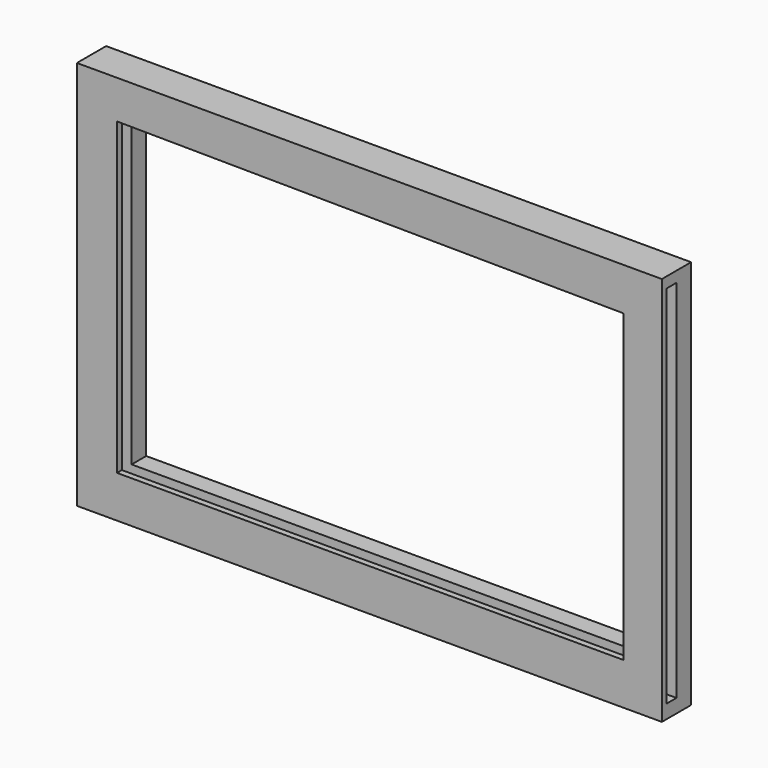
from build123d import *

# Parameters (mm, degrees)
F0_W     = 127
F0_H     = 76.2
F1_DEPTH = 2.54
F2_W     = 121.95362
F2_H     = 81.28
F3_DEPTH = 3.81
F5_DEPTH = 25.4


with BuildPart() as f1:
    # F0 (on Front) → F1 (new body)
    with BuildSketch(Plane.XZ):
        Rectangle(F0_W, F0_H)
    extrude(amount=F1_DEPTH)


with BuildPart() as f3:
    # F2 (on Front) → F3 (new body, symmetric)
    with BuildSketch(Plane.XZ):
        with Locations((-4.591286, -0.313837)):
            Rectangle(F2_W, F2_H)
    extrude(amount=F3_DEPTH, both=True)


with BuildPart() as f5_tool:
    # F4 (on face) → F5 (new body)
    with BuildSketch(Plane.XZ.offset(3.81)):
        Polygon((48.386987, 31.428229), (-57.210241, 32.319993), (-57.210241, -32.189324), (48.386987, -32.189324), align=None)
    extrude(amount=-F5_DEPTH)


with BuildPart() as f1_1:
    add(f1.part)

    # F5: cut by f5_tool
    add(f5_tool.part, mode=Mode.SUBTRACT)


with BuildPart() as f3_1:
    add(f3.part)

    # F5: cut by f5_tool
    add(f5_tool.part, mode=Mode.SUBTRACT)

    # F6: cut F1
    add(f1_1.part, mode=Mode.SUBTRACT)


solid = f3_1.part
